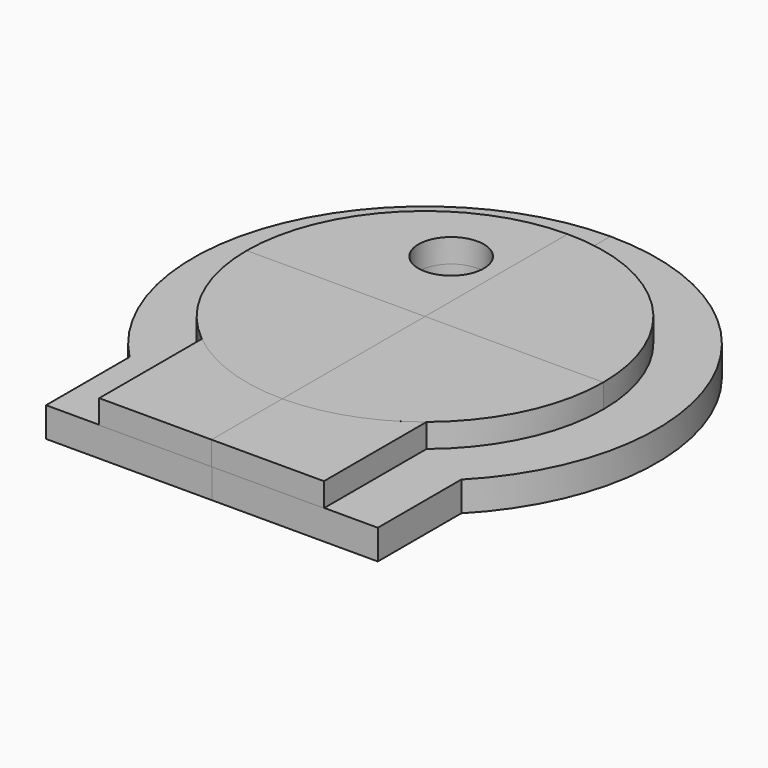
from build123d import *

# Parameters (mm, degrees)
F0_W      = 300
F0_H      = 40
F1_ANGLE  = 90
F2_ANGLE  = 90
F3_ANGLE  = 90
F4_ANGLE  = 90
F5_W      = 300
F5_H      = 40
F6_DEPTH  = 189
F11_W     = 410
F11_H     = 410
F11_H_2   = 450
F12_DEPTH = 50
F17_DEPTH = 50
F19_ANGLE = 180
F23_DEPTH = 200


with BuildPart() as f1:
    # F0 (on Front) → F1 (revolve)
    with BuildSketch(Plane.XZ):
        with Locations((150, 20)):
            Rectangle(F0_W, F0_H)
    revolve(axis=Axis((0, 0, 20), (0, 0, 1)), revolution_arc=F1_ANGLE)


with BuildPart() as f2_1:
    # F2: copy of F1
    add(f1.part.rotate(Axis((0, 0, 20), (0, 0, 1)), F2_ANGLE))


with BuildPart() as f3_1:
    # F3: copy of F2_1
    add(f2_1.part.rotate(Axis((0, 0, 20), (0, 0, 1)), F3_ANGLE))


with BuildPart() as f4_1:
    # F4: copy of F3_1
    add(f3_1.part.rotate(Axis((0, 0, 20), (0, 0, 1)), F4_ANGLE))


with BuildPart() as f6:
    # F5 (on Right) → F6 (new body)
    with BuildSketch(Plane.YZ):
        with Locations((150, 20)):
            Rectangle(F5_W, F5_H)
    extrude(amount=F6_DEPTH)


with BuildPart() as f6_1:
    # F7: moved
    add(f6.part.moved(Location((0, -448.8, 0))))


with BuildPart() as f8_1:
    # F8: copy of F6
    add(f6_1.part.moved(Location((-189, 0, 0))))

    # F9: cut F3_1
    add(f3_1.part, mode=Mode.SUBTRACT)


with BuildPart() as f6_2:
    add(f6_1.part)

    # F10: cut F4_1
    add(f4_1.part, mode=Mode.SUBTRACT)


with BuildPart() as f12:
    # F11 (on Top) → F12 (new body)
    with BuildSketch(Plane.XY):
        with Locations((205, -205)):
            Rectangle(F11_W, F11_H)
        with Locations((205, 225)):
            Rectangle(F11_W, F11_H_2)
        with Locations((-205, 225)):
            Rectangle(F11_W, F11_H_2)
        with Locations((-205, -205)):
            Rectangle(F11_W, F11_H)
    extrude(amount=F12_DEPTH)


with BuildPart() as f12_1:
    # F13: moved
    add(f12.part.moved(Location((0, 0, -50))))


with BuildPart() as f12_2:
    # F14: moved
    add(f12_1.part.moved(Location((0, -40, 0))))


with BuildPart() as f3_1_1:
    # F15: moved
    add(f3_1.part.moved(Location((0, 20, -50))))


with BuildPart() as f2_1_1:
    # F15: moved
    add(f2_1.part.moved(Location((0, 20, -50))))


with BuildPart() as f4_1_1:
    # F15: moved
    add(f4_1.part.moved(Location((0, 20, -50))))


with BuildPart() as f6_3:
    # F15: moved
    add(f6_2.part.moved(Location((0, 20, -50))))


with BuildPart() as f8_1_1:
    # F15: moved
    add(f8_1.part.moved(Location((0, 20, -50))))


with BuildPart() as f12_3:
    # F15: moved
    add(f12_2.part.moved(Location((0, 20, -50))))


with BuildPart() as f1_1:
    # F15: moved
    add(f1.part.moved(Location((0, 20, -50))))


with BuildPart() as f17:
    # F16 (on Top) → F17 (new body)
    with BuildSketch(Plane.XY):
        with BuildLine():
            Line((0, -428), (0, 0))
            Line((0, 0), (0, 20))
            Line((0, 20), (0, 410))
            ThreePointArc((0, 410), (-359.4279954815, 171.3655048687), (-279, -252.5050458248))
            Line((-279, -252.5050458248), (-279, -428))
            Line((-279, -428), (0, -428))
        make_face()
    extrude(amount=F17_DEPTH)


with BuildPart() as f17_1:
    # F18: moved
    add(f17.part.moved(Location((0, 0, -100))))


with BuildPart() as f19_1:
    # F19: copy of F17
    add(f17_1.part.rotate(Axis((0, 170, -50), (0, 1, 0)), F19_ANGLE))


with BuildPart() as f19_1_1:
    # F20: moved
    add(f19_1.part.moved(Location((0, 0, -50))))


with BuildPart() as f23:
    # F22 (on Top) → F23 (new body)
    with BuildSketch(Plane.XY):
        with BuildLine():
            ThreePointArc((-80, 120), (-41.1091270347, 136.1091270347), (-25, 175))
            ThreePointArc((-25, 175), (-118.8908729653, 213.8908729653), (-80, 120))
        make_face()
    extrude(amount=F23_DEPTH)


with BuildPart() as f23_1:
    # F24: moved
    add(f23.part.moved(Location((0, 0, -200))))


with BuildPart() as f2_1_2:
    add(f2_1_1.part)

    # F25: cut F23
    add(f23_1.part, mode=Mode.SUBTRACT)


with BuildPart() as f17_2:
    add(f17_1.part)

    # F25: cut F23
    add(f23_1.part, mode=Mode.SUBTRACT)


with BuildPart() as f6_4:
    # F26: moved
    add(f6_3.part.moved(Location((0, 0, 3))))


with BuildPart() as f8_1_2:
    # F26: moved
    add(f8_1_1.part.moved(Location((0, 0, 3))))


with BuildPart() as f17_3:
    # F26: moved
    add(f17_2.part.moved(Location((0, 0, 3))))


with BuildPart() as f19_1_2:
    # F26: moved
    add(f19_1_1.part.moved(Location((0, 0, 3))))


with BuildPart() as f1_2:
    # F26: moved
    add(f1_1.part.moved(Location((0, 0, 3))))


with BuildPart() as f2_1_3:
    # F26: moved
    add(f2_1_2.part.moved(Location((0, 0, 3))))


with BuildPart() as f4_1_2:
    # F26: moved
    add(f4_1_1.part.moved(Location((0, 0, 3))))


with BuildPart() as f3_1_2:
    # F26: moved
    add(f3_1_1.part.moved(Location((0, 0, 3))))


solid = Compound([f6_4.part, f8_1_2.part, f17_3.part, f19_1_2.part, f1_2.part, f2_1_3.part, f4_1_2.part, f3_1_2.part])
